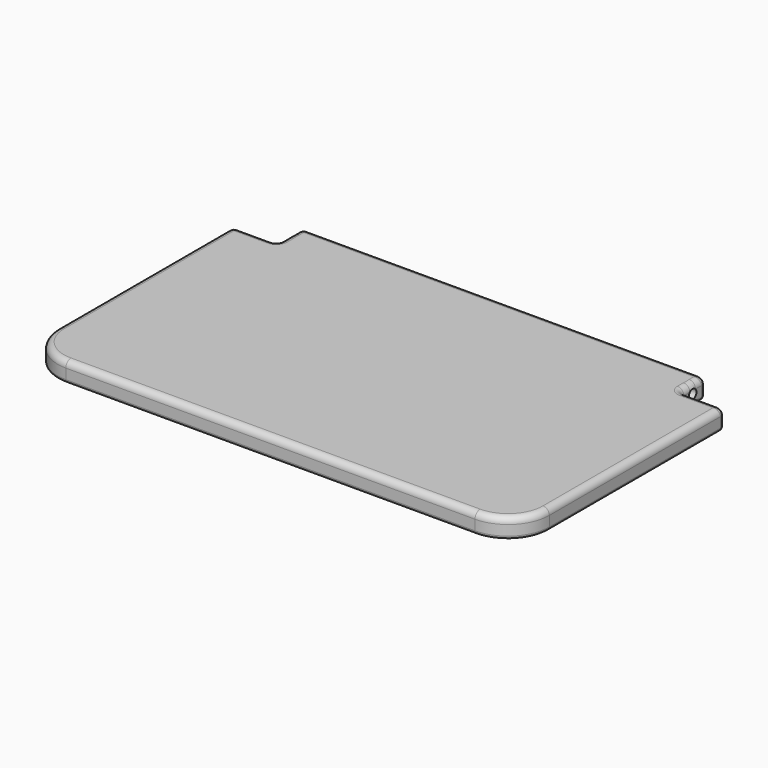
from build123d import *

# Parameters (mm, degrees)
PAD_DEPTH    = 6.2
SKETCH001_R  = 1.5
POCKET_DEPTH = 127
FILLET_R     = 13
FILLET001_R  = 1.5
FILLET002_R  = 2
FILLET003_R  = 1
SKETCH002_W  = 105
SKETCH002_H  = 63
PAD001_DEPTH = 0.2


with BuildPart() as part:
    # Sketch → Pad (new body)
    with BuildSketch(Plane.XY):
        Polygon((-77.5, -46), (77.5, -46), (77.5, 36), (63.5, 36), (63.5, 46), (-63.5, 46), (-63.5, 36), (-77.5, 36), align=None)
    extrude(amount=PAD_DEPTH)

    # Sketch001 (on Face1 of Pad) → Pocket (cut)
    with BuildSketch(Plane(origin=(-63.5, 0, 0), x_dir=(0, -1, 0), z_dir=(-1, 0, 0))):
        with Locations((-41, 3.2)):
            Circle(SKETCH001_R)
    extrude(amount=-POCKET_DEPTH, mode=Mode.SUBTRACT)

    # Fillet
    fillet_edges = [part.edges().sort_by_distance(p)[0] for p in [
        (-77.5, -46, 3.1),
        (77.5, -46, 3.1),
    ]]
    fillet(fillet_edges, radius=FILLET_R)

    # Fillet001
    fillet001_edges = [part.edges().sort_by_distance(p)[0] for p in [
        (-77.5, 36, 3.1),
        (-63.5, 36, 3.1),
        (-63.5, 46, 3.1),
        (63.5, 46, 3.1),
        (63.5, 36, 3.1),
        (77.5, 36, 3.1),
    ]]
    fillet(fillet001_edges, radius=FILLET001_R)

    # Fillet002
    fillet002_edges = [part.edges().sort_by_distance(p)[0] for p in [
        (-77.5, 0.75, 6.2),
        (-77.06066, 35.56066, 6.2),
        (-73.692388, -42.192388, 6.2),
        (-70.5, 36, 6.2),
        (0, -46, 6.2),
        (-63.93934, 36.43934, 6.2),
        (73.692388, -42.192388, 6.2),
        (-63.5, 41, 6.2),
        (77.5, 0.75, 6.2),
        (-63.06066, 45.56066, 6.2),
        (77.06066, 35.56066, 6.2),
        (0, 46, 6.2),
        (70.5, 36, 6.2),
        (63.06066, 45.56066, 6.2),
        (63.93934, 36.43934, 6.2),
        (63.5, 41, 6.2),
    ]]
    fillet(fillet002_edges, radius=FILLET002_R)

    # Fillet003
    fillet003_edges = [part.edges().sort_by_distance(p)[0] for p in [
        (-77.5, 0.75, 0),
        (-77.06066, 35.56066, 0),
        (-73.692388, -42.192388, 0),
        (-70.5, 36, 0),
        (0, -46, 0),
        (-63.93934, 36.43934, 0),
        (73.692388, -42.192388, 0),
        (-63.5, 41, 0),
        (77.5, 0.75, 0),
        (-63.06066, 45.56066, 0),
        (77.06066, 35.56066, 0),
        (0, 46, 0),
        (70.5, 36, 0),
        (63.06066, 45.56066, 0),
        (63.93934, 36.43934, 0),
        (63.5, 41, 0),
    ]]
    fillet(fillet003_edges, radius=FILLET003_R)

    # Sketch002 → Pad001 (join)
    with BuildSketch(Plane.XY):
        with Locations((0, 2.5)):
            Rectangle(SKETCH002_W, SKETCH002_H)
    extrude(amount=-PAD001_DEPTH)


solid = part.part
